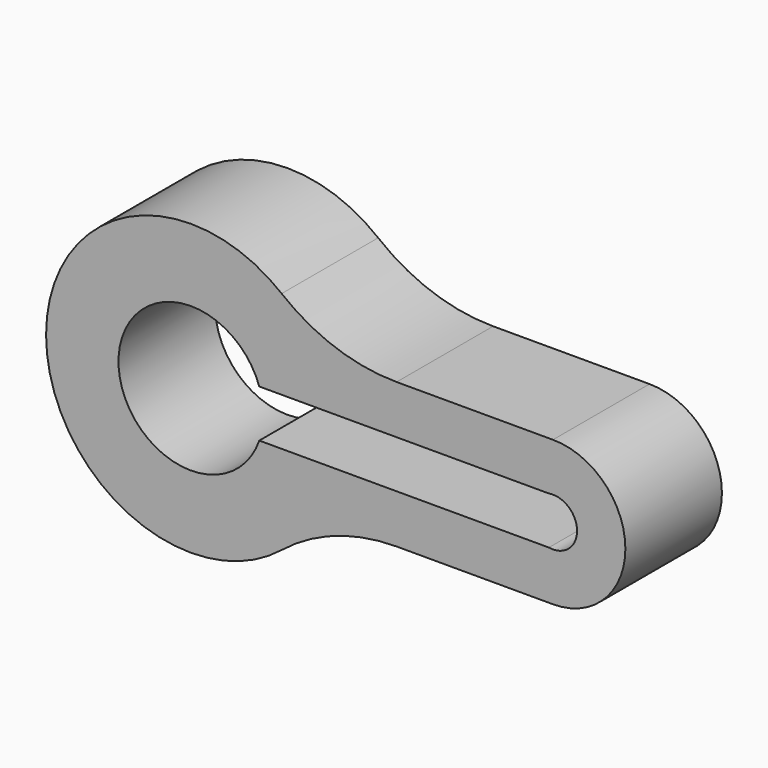
from build123d import *

# Parameters (mm, degrees)
F1_DEPTH = 25


with BuildPart() as f1:
    # F0 (on Front) → F1 (new body)
    with BuildSketch(Plane.XZ):
        with BuildLine():
            ThreePointArc((-0.330098, 15), (-12.95011, 17.156796), (-24.137555, 23.382353))
            ThreePointArc((-24.137555, 23.382353), (-72.932915, 0), (-24.137555, -23.382353))
            ThreePointArc((-24.137555, -23.382353), (-12.95011, -17.156796), (-0.330098, -15))
            Line((-0.330098, -15), (32.067085, -15))
            ThreePointArc((32.067085, -15), (47.067085, 0), (32.067085, 15))
            Line((32.067085, 15), (-0.330098, 15))
        make_face()
        with BuildLine():
            ThreePointArc((-28.766248, -4.930066), (-57.932915, 0), (-28.766248, 4.930066))
            Line((-28.766248, 4.930066), (31.233752, 4.930066))
            ThreePointArc((31.233752, 4.930066), (37.067085, 0), (31.233752, -4.930066))
            Line((31.233752, -4.930066), (-28.766248, -4.930066))
        make_face(mode=Mode.SUBTRACT)
    extrude(amount=F1_DEPTH)


solid = f1.part
